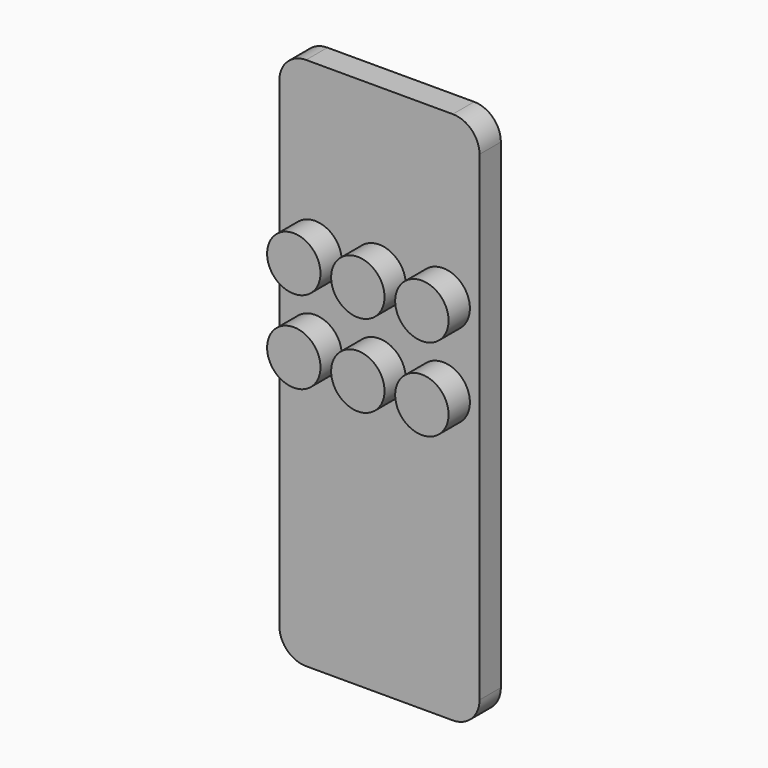
from build123d import *

# Parameters (mm, degrees)
F0_R     = 2.54
F1_DEPTH = 5.08
F2_DEPTH = 2.54


with BuildPart() as f1:
    # F0 (on Front) → F1 (new body)
    with BuildSketch(Plane.XZ):
        with Locations((3.402724, 9.656379)):
            Circle(F0_R)
        with Locations((9.498724, 9.656379)):
            Circle(F0_R)
        with Locations((15.594724, 9.656379)):
            Circle(F0_R)
        with Locations((15.594724, 1.782379)):
            Circle(F0_R)
        with Locations((9.498724, 1.782379)):
            Circle(F0_R)
        with Locations((3.402724, 1.782379)):
            Circle(F0_R)
    extrude(amount=F1_DEPTH)


with BuildPart() as f2:
    # F0 (on Front) → F2 (new body)
    with BuildSketch(Plane.XZ):
        with BuildLine():
            Line((16.51, 25.4), (2.54, 25.4))
            ThreePointArc((2.54, 25.4), (0.743949, 24.656051), (0, 22.86))
            Line((0, 22.86), (0, -22.86))
            ThreePointArc((0, -22.86), (0.743949, -24.656051), (2.54, -25.4))
            Line((2.54, -25.4), (16.51, -25.4))
            ThreePointArc((16.51, -25.4), (18.306051, -24.656051), (19.05, -22.86))
            Line((19.05, -22.86), (19.05, 22.86))
            ThreePointArc((19.05, 22.86), (18.306051, 24.656051), (16.51, 25.4))
        make_face()
        with Locations((3.402724, 1.782379)):
            Circle(F0_R, mode=Mode.SUBTRACT)
        with Locations((3.402724, 9.656379)):
            Circle(F0_R, mode=Mode.SUBTRACT)
        with Locations((9.498724, 1.782379)):
            Circle(F0_R, mode=Mode.SUBTRACT)
        with Locations((9.498724, 9.656379)):
            Circle(F0_R, mode=Mode.SUBTRACT)
        with Locations((15.594724, 1.782379)):
            Circle(F0_R, mode=Mode.SUBTRACT)
        with Locations((15.594724, 9.656379)):
            Circle(F0_R, mode=Mode.SUBTRACT)
    extrude(amount=F2_DEPTH)


solid = Compound([f1.part, f2.part])
